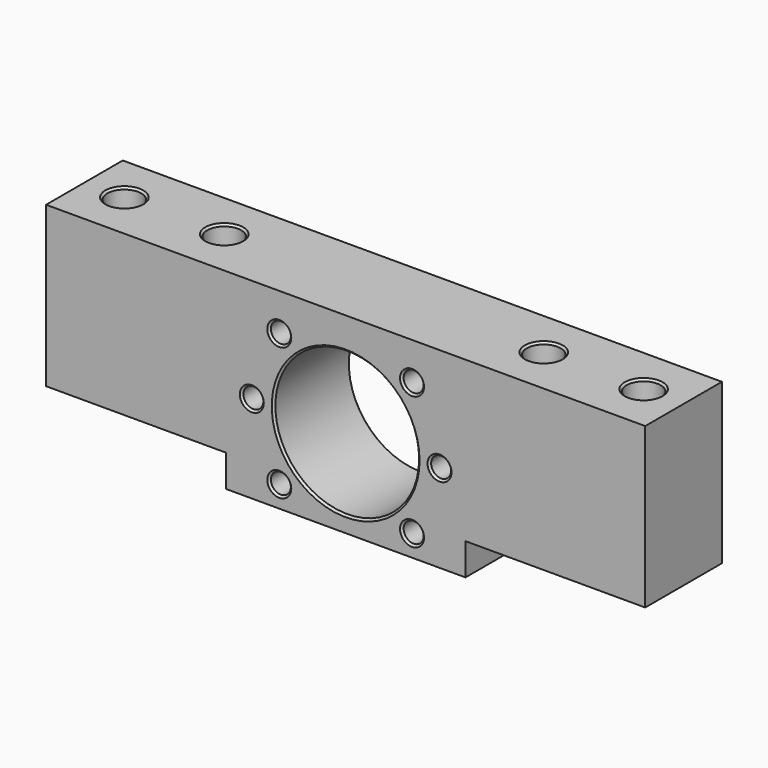
from build123d import *

# Parameters (mm, degrees)
F0_R     = 18
F1_DEPTH = 24
F2_R     = 2.5
F3_DEPTH = 25
F4_R     = 4.25
F5_DEPTH = 35
F6_SIZE  = 4.25
F7_SIZE  = 0.5


with BuildPart() as f1:
    # F0 (on Front) → F1 (new body)
    with BuildSketch(Plane.XZ):
        Polygon((-30, -22), (30, -22), (30, -14), (75, -14), (75, 26), (-75, 26), (-75, -14), (-30, -14), align=None)
        Circle(F0_R, mode=Mode.SUBTRACT)
    extrude(amount=F1_DEPTH)

    # F2 (on face) → F3 (cut)
    with BuildSketch(Plane.XZ.offset(24)):
        with Locations((-23.5, 0)):
            Circle(F2_R)
        with Locations((-16.617009, -16.617009)):
            Circle(F2_R)
        with Locations((16.617009, -16.617009)):
            Circle(F2_R)
        with Locations((23.5, 0)):
            Circle(F2_R)
        with Locations((16.617009, 16.617009)):
            Circle(F2_R)
        with Locations((-16.617009, 16.617009)):
            Circle(F2_R)
    extrude(amount=-F3_DEPTH, mode=Mode.SUBTRACT)

    # F4 (on face) → F5 (cut)
    with BuildSketch(Plane.XY.offset(26)):
        with Locations((-65, -12)):
            Circle(F4_R)
        with Locations((-40, -12)):
            Circle(F4_R)
        with Locations((65, -12)):
            Circle(F4_R)
        with Locations((40, -12)):
            Circle(F4_R)
    extrude(amount=-F5_DEPTH, mode=Mode.SUBTRACT)

    # F6
    f6_edges = [f1.edges().sort_by_distance(p)[0] for p in [
        (-69.25, -12, -9),
        (-44.25, -12, -9),
        (35.75, -12, -9),
        (60.75, -12, -9),
    ]]
    chamfer(f6_edges, length=F6_SIZE)

    # F7
    f7_edges = [f1.edges().sort_by_distance(p)[0] for p in [
        (-69.25, -12, 26),
        (-44.25, -12, 26),
        (35.75, -12, 26),
        (60.75, -12, 26),
        (18, -12, 0),
        (-18, 0, 0),
        (-18, -24, 0),
        (-26, -24, 0),
        (-21, -12, 0),
        (-26, 0, 0),
        (-19.117009, -24, 16.617009),
        (-14.117009, -12, 16.617009),
        (-19.117009, 0, 16.617009),
        (-19.117009, -24, -16.617009),
        (-14.117009, -12, -16.617009),
        (-19.117009, 0, -16.617009),
        (14.117009, -24, -16.617009),
        (19.117009, -12, -16.617009),
        (14.117009, 0, -16.617009),
        (21, -24, 0),
        (26, -12, 0),
        (21, 0, 0),
        (14.117009, -24, 16.617009),
        (19.117009, -12, 16.617009),
        (14.117009, 0, 16.617009),
    ]]
    chamfer(f7_edges, length=F7_SIZE)


solid = f1.part
